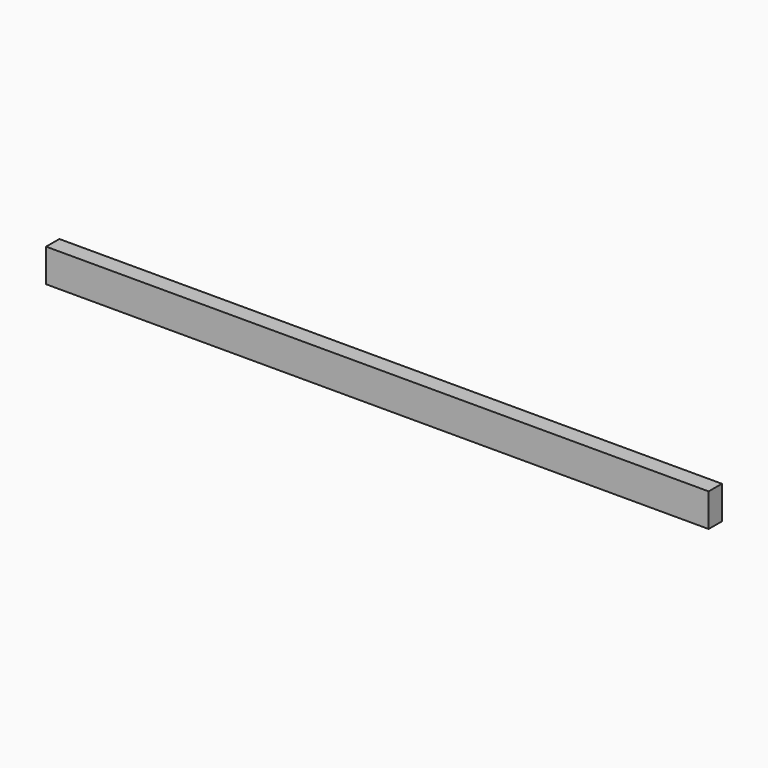
from build123d import *

# Parameters (mm, degrees)
F0_W     = 50
F0_H     = 100
F1_DEPTH = 2000
F3_ANGLE = -90


with BuildPart() as f1:
    # F0 (on Right) → F1 (new body)
    with BuildSketch(Plane.YZ):
        Rectangle(F0_W, F0_H)
    extrude(amount=F1_DEPTH)


with BuildPart() as f2_1:
    # F2: copy of F1
    add(f1.part.moved(Location((0, 2000, 0))))


with BuildPart() as f3_1:
    # F3: copy of F1
    add(f1.part.rotate(Axis((0, -25, 0), (0, 0, 1)), F3_ANGLE))


with BuildPart() as f5_1:
    # F5: copy of F1
    add(f1.part)


solid = f1.part
